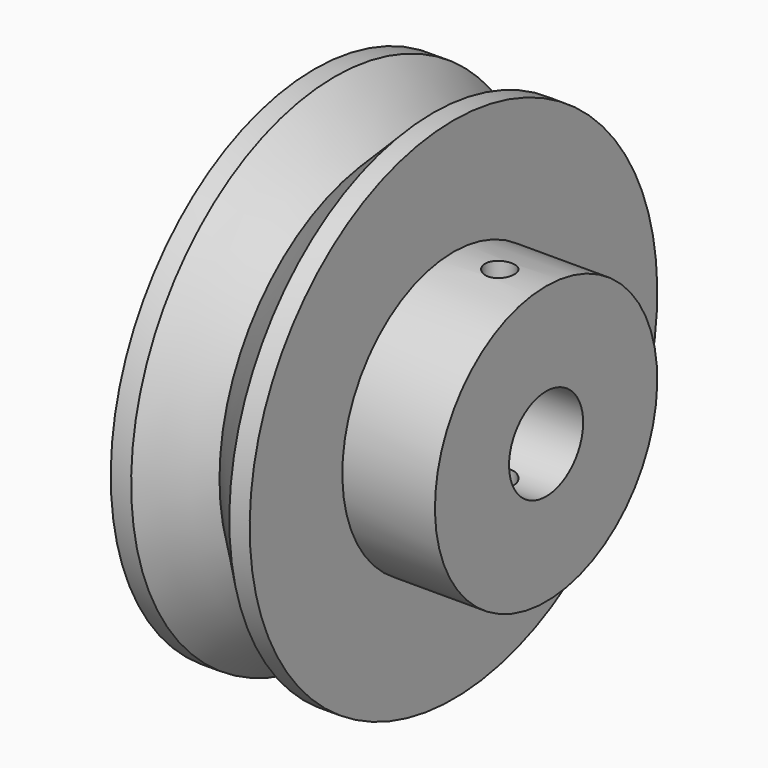
from build123d import *

# Parameters (mm, degrees)
F4_DEPTH = 27.0135


with BuildPart() as f1:
    # F0 (on Front) → F1 (revolve)
    with BuildSketch(Plane.XZ):
        Polygon((-2.131164, 3.175), (13.743836, 3.175), (13.743836, 9.525), (7.393836, 9.525), (7.393836, 17.4625), (-2.131164, 17.4625), align=None)
    revolve(axis=Axis((-0.144044, 0, 0), (-1, 0, 0)))

    # F3 (on offset) → F4 (cut, through all)
    with BuildSketch(Plane.XY.offset(9.55)):
        with BuildLine():
            Line((9.568836, 0), (11.568836, 0))
            ThreePointArc((11.568836, 0), (10.568836, 1), (9.568836, 0))
        make_face()
        with BuildLine():
            ThreePointArc((9.568836, 0), (10.568836, -1), (11.568836, 0))
            Line((11.568836, 0), (9.568836, 0))
        make_face()
    extrude(amount=-F4_DEPTH, mode=Mode.SUBTRACT)

    # F6 (on Top) → F7 (revolve, cut)
    with BuildSketch(Plane.XY):
        Polygon((5.996475, 17.4625), (-0.733803, 17.4625), (2.631336, 14.097361), align=None)
    revolve(axis=Axis((5.807324, 0, 0), (1, 0, 0)), mode=Mode.SUBTRACT)


solid = f1.part
